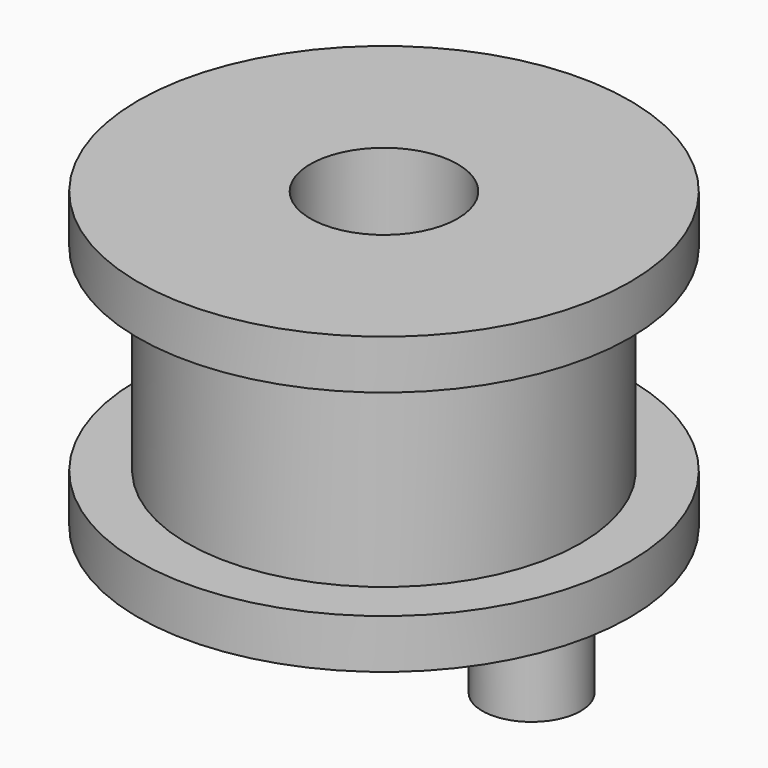
from build123d import *

# Parameters (mm, degrees)
F0_W     = 7.9375
F0_H     = 12.7
F2_R     = 3.175
F3_DEPTH = 6.35


with BuildPart() as f1:
    # F0 (on Front) → F1 (revolve)
    with BuildSketch(Plane.XZ):
        Polygon((15.86865, 14.307703), (4.75615, 14.307703), (4.75615, 11.132703), (12.69365, 11.132703), (15.86865, 11.132703), align=None)
        with Locations((8.7249, 4.782703)):
            Rectangle(F0_W, F0_H)
        Polygon((4.75615, -1.567297), (4.75615, -4.742297), (15.86865, -4.742297), (15.86865, -1.567297), (12.69365, -1.567297), align=None)
    revolve(axis=Axis((0, 0, 4.782703), (0, 0, 1)))

    # F2 (on face) → F3 (join)
    with BuildSketch(Plane(origin=(0, 0, -4.742297), x_dir=(1, 0, 0), z_dir=(0, 0, -1))):
        with Locations((9.525, 0)):
            Circle(F2_R)
    extrude(amount=F3_DEPTH)


solid = f1.part
